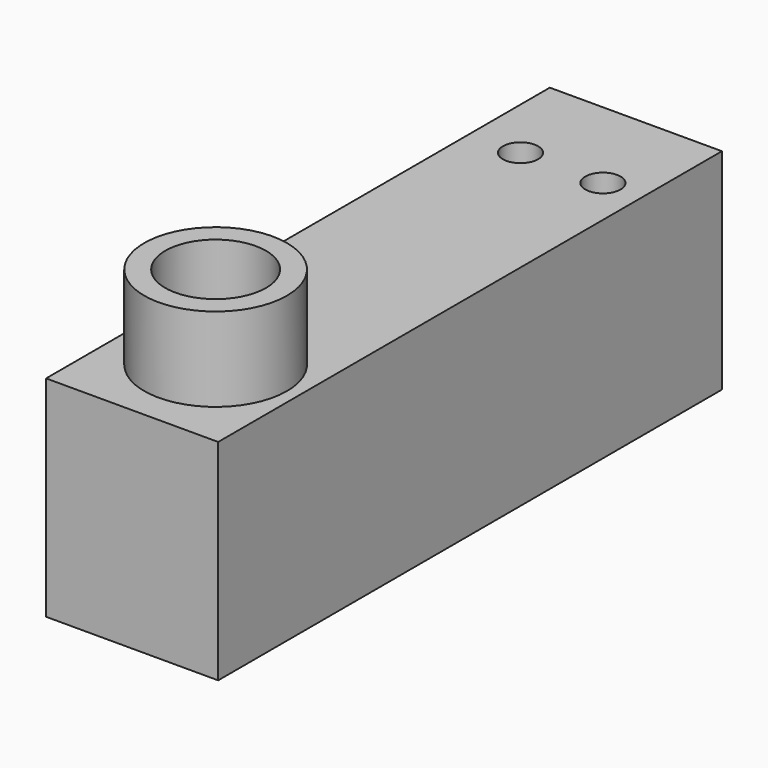
from build123d import *

# Parameters (mm, degrees)
F0_W     = 20.5
F0_H     = 75
F1_DEPTH = 25
F2_R     = 8.5
F3_DEPTH = 10
F5_D     = 4.2
F6_R     = 6
F7_DEPTH = 25


with BuildPart() as f1:
    # F0 (on Top) → F1 (new body)
    with BuildSketch(Plane.XY):
        with Locations((-0.3433860838, 14.475764136)):
            Rectangle(F0_W, F0_H)
    extrude(amount=F1_DEPTH)

    # F2 (on face) → F3 (join)
    with BuildSketch(Plane.XY.offset(25)):
        with Locations((0, -11.024235864)):
            Circle(F2_R)
    extrude(amount=F3_DEPTH)

    # F5 (through all)
    with Locations(Plane.XY.offset(25)):
        with Locations((-4.5289483146, 40.0326289237), (5.268279344, 40.0625547821)):
            Hole(F5_D / 2)

    # F6 (on face) → F7 (cut)
    with BuildSketch(Plane.XY.offset(35)):
        with Locations((0, -11.024235864)):
            Circle(F6_R)
    extrude(amount=-F7_DEPTH, mode=Mode.SUBTRACT)


solid = f1.part
